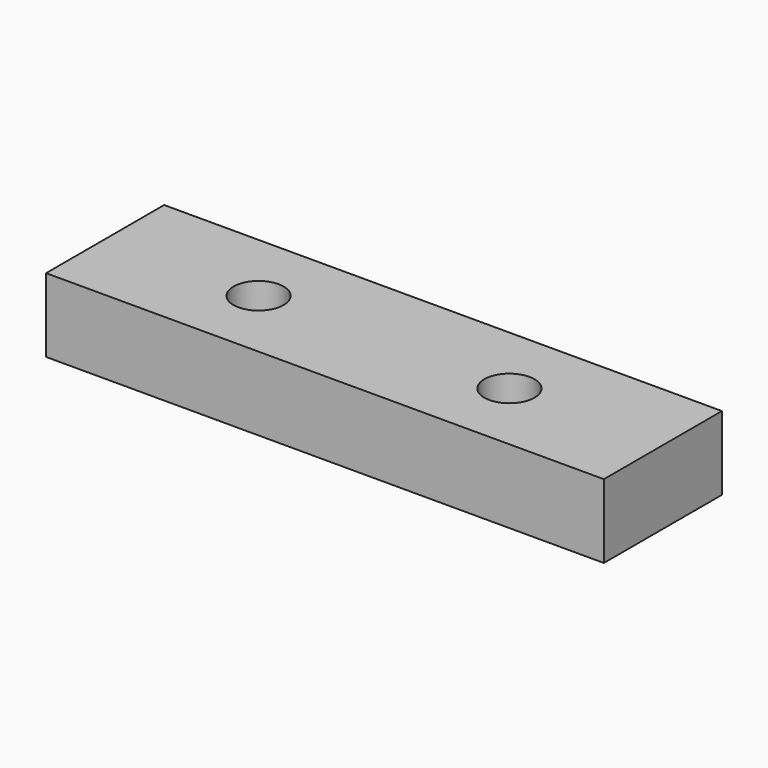
from build123d import *

# Parameters (mm, degrees)
F0_R     = 1.7
F1_DEPTH = 5


with BuildPart() as f1:
    # F0 (on Top) → F1 (new body)
    with BuildSketch(Plane.XY):
        with Locations((-11.34986, 17.466265)):
            Circle(F0_R)
        Polygon((-2.84986, 22.466265), (-21.74986, 22.466265), (-21.74986, 12.466265), (-2.84986, 12.466265), (-2.84986, 17.466265), align=None)
        with Locations((-11.34986, 17.466265)):
            Circle(F0_R, mode=Mode.SUBTRACT)
        with BuildLine():
            ThreePointArc((7.35014, 17.466265), (5.65014, 19.166265), (3.95014, 17.466265))
            ThreePointArc((3.95014, 17.466265), (5.65014, 15.766265), (7.35014, 17.466265))
        make_face()
        Polygon((16.05014, 22.466265), (-2.84986, 22.466265), (-2.84986, 17.466265), (-2.84986, 12.466265), (16.05014, 12.466265), align=None)
        with BuildLine():
            ThreePointArc((7.35014, 17.466265), (5.65014, 15.766265), (3.95014, 17.466265))
            ThreePointArc((3.95014, 17.466265), (5.65014, 19.166265), (7.35014, 17.466265))
        make_face(mode=Mode.SUBTRACT)
        Polygon((-2.84986, 22.466265), (-21.74986, 22.466265), (-21.74986, 12.466265), (-2.84986, 12.466265), (-2.84986, 17.466265), align=None)
        with Locations((-11.34986, 17.466265)):
            Circle(F0_R, mode=Mode.SUBTRACT)
    extrude(amount=F1_DEPTH)


solid = f1.part
